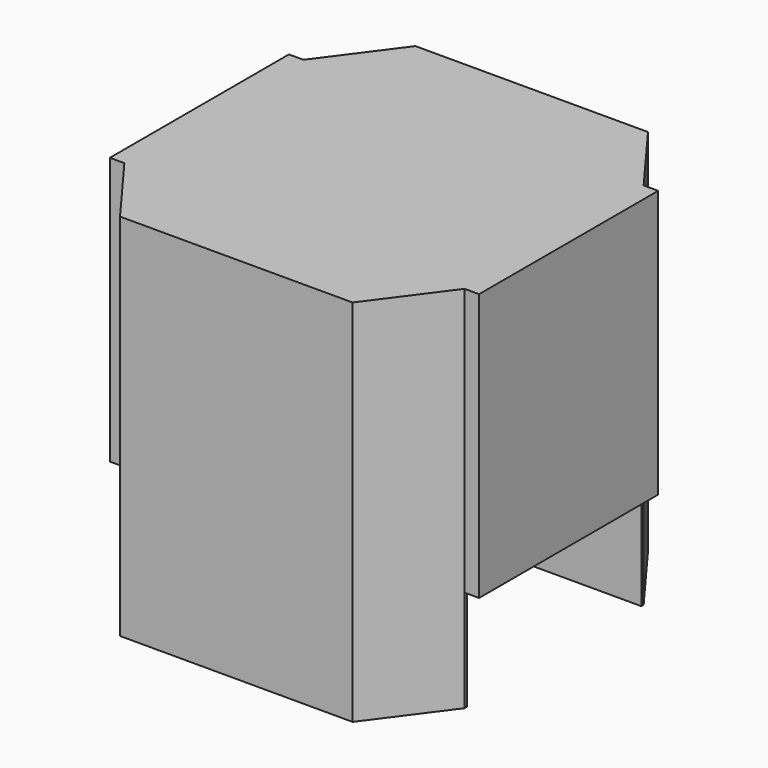
from build123d import *

# Parameters (mm, degrees)
PAD002_DEPTH       = 2.54
SKETCH007_W        = 0.2
SKETCH007_H        = 0.8
POCKET001002_DEPTH = 2.041
SKETCH008_W        = 3
SKETCH008_H        = 1.5
POCKET001003_DEPTH = 0.7


with BuildPart() as part:
    # Sketch006 → Pad002 (new body)
    with BuildSketch(Plane.XY):
        Polygon((-1.27, 0.77), (-1.17, 0.77), (-0.8, 1.27), (0.8, 1.27), (1.17, 0.77), (1.27, 0.77), (1.27, -0.77), (1.17, -0.77), (0.8, -1.27), (-0.8, -1.27), (-1.17, -0.77), (-1.27, -0.77), align=None)
    extrude(amount=PAD002_DEPTH)

    # Sketch007 (on Face8 of Pad002) → Pocket001002 (cut, through all)
    with BuildSketch(Plane.XZ.offset(0.77)):
        Polygon((1.17, 0.7), (1.27, 0.7), (1.37, 0.7), (1.37, -0.1), (1.17, -0.1), (1.17, 0), align=None)
        with Locations((-1.27, 0.3)):
            Rectangle(SKETCH007_W, SKETCH007_H)
    extrude(amount=-POCKET001002_DEPTH, mode=Mode.SUBTRACT)

    # Sketch008 (on Face16 of Pocket001002) → Pocket001003 (cut)
    with BuildSketch(Plane(origin=(0, 0, 0), x_dir=(1, 0, 0), z_dir=(0, 0, -1))):
        Rectangle(SKETCH008_W, SKETCH008_H)
    extrude(amount=-POCKET001003_DEPTH, mode=Mode.SUBTRACT)


solid = part.part
